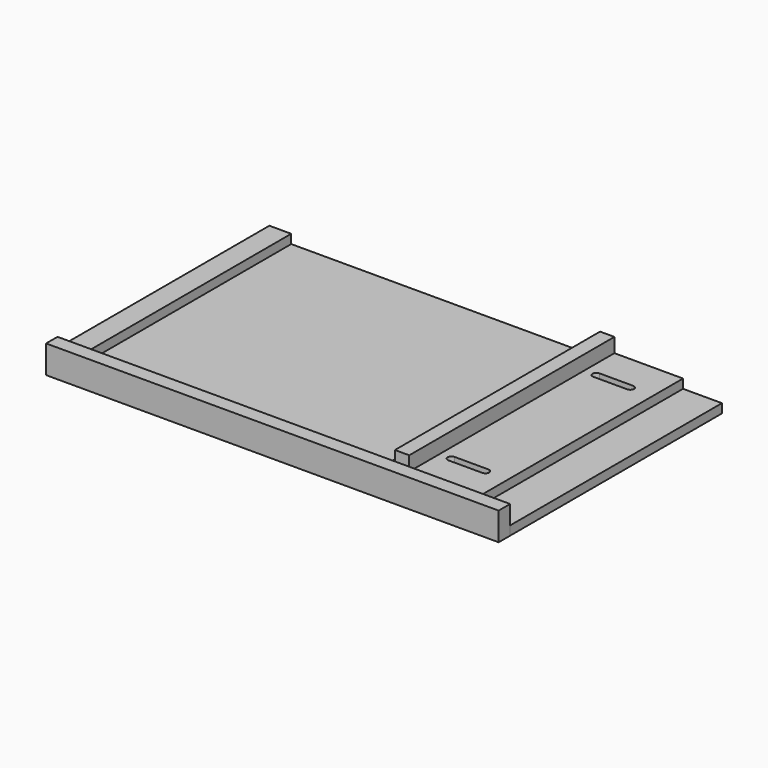
from build123d import *

# Parameters (mm, degrees)
F0_W          = 600
F0_H          = 370
F0_R          = 12.5
F0_R_2        = 5
F1_DEPTH      = 12
F2_DEPTH      = 6
F3_W          = 120
F3_H          = 340
F3_W_2        = 10
F3_H_2        = 351
F3_W_3        = 19
F4_DEPTH      = 12
F5_W          = 19
F5_H          = 340
F6_DEPTH      = 19
F3_W_4        = 571
F3_H_3        = 19
F7_DEPTH      = 25
F7_DEPTH_BACK = 12


with BuildPart() as f1:
    # F0 (on Top) → F1 (new body)
    with BuildSketch(Plane.XY):
        with Locations((300, 185)):
            Rectangle(F0_W, F0_H)
        with Locations((525, 80)):
            Circle(F0_R, mode=Mode.SUBTRACT)
        with Locations((525, 320)):
            Circle(F0_R, mode=Mode.SUBTRACT)
        with Locations((525, 80)):
            Circle(F0_R)
        with Locations((525, 80)):
            Circle(F0_R_2, mode=Mode.SUBTRACT)
        with Locations((525, 320)):
            Circle(F0_R)
        with Locations((525, 320)):
            Circle(F0_R_2, mode=Mode.SUBTRACT)
    extrude(amount=F1_DEPTH)

    # F0 (on Top) → F2 (cut)
    with BuildSketch(Plane.XY):
        with Locations((525, 80)):
            Circle(F0_R)
        with Locations((525, 80)):
            Circle(F0_R_2, mode=Mode.SUBTRACT)
        with Locations((525, 320)):
            Circle(F0_R)
        with Locations((525, 320)):
            Circle(F0_R_2, mode=Mode.SUBTRACT)
    extrude(amount=F2_DEPTH, mode=Mode.SUBTRACT)


with BuildPart() as f4:
    # F3 (on face) → F4 (new body)
    with BuildSketch(Plane.XY.offset(12)):
        with Locations((488.453896, 200)):
            Rectangle(F3_W, F3_H)
        with BuildLine():
            ThreePointArc((473.453896, 75), (468.453896, 80), (473.453896, 85))
            Line((473.453896, 85), (518.453896, 85))
            ThreePointArc((518.453896, 85), (520.200441, 84.685038), (521.726948, 83.779832))
            ThreePointArc((521.726948, 83.779832), (527.077828, 84.547816), (530, 80))
            ThreePointArc((530, 80), (527.077828, 75.452184), (521.726948, 76.220168))
            ThreePointArc((521.726948, 76.220168), (520.200441, 75.314962), (518.453896, 75))
            Line((518.453896, 75), (473.453896, 75))
        make_face(mode=Mode.SUBTRACT)
        with BuildLine():
            Line((518.453896, 315), (473.453896, 315))
            ThreePointArc((473.453896, 315), (468.453896, 320), (473.453896, 325))
            Line((473.453896, 325), (518.453896, 325))
            ThreePointArc((518.453896, 325), (520.200441, 324.685038), (521.726948, 323.779832))
            ThreePointArc((521.726948, 323.779832), (527.077828, 324.547816), (530, 320))
            ThreePointArc((530, 320), (527.077828, 315.452184), (521.726948, 316.220168))
            ThreePointArc((521.726948, 316.220168), (520.200441, 315.314962), (518.453896, 315))
        make_face(mode=Mode.SUBTRACT)
        with BuildLine():
            ThreePointArc((521.726948, 323.779832), (523.453896, 320), (521.726948, 316.220168))
            ThreePointArc((521.726948, 316.220168), (527.077828, 315.452184), (530, 320))
            ThreePointArc((530, 320), (527.077828, 324.547816), (521.726948, 323.779832))
        make_face()
        with BuildLine():
            ThreePointArc((530, 80), (527.077828, 84.547816), (521.726948, 83.779832))
            ThreePointArc((521.726948, 83.779832), (523.453896, 80), (521.726948, 76.220168))
            ThreePointArc((521.726948, 76.220168), (527.077828, 75.452184), (530, 80))
        make_face()
        with Locations((24, 194.5)):
            Rectangle(F3_W_2, F3_H_2)
        with Locations((9.5, 194.5)):
            Rectangle(F3_W_3, F3_H_2)
    extrude(amount=F4_DEPTH)


with BuildPart() as f6:
    # F5 (on face) → F6 (new body)
    with BuildSketch(Plane.XY.offset(24)):
        with Locations((447.953896, 200)):
            Rectangle(F5_W, F5_H)
    extrude(amount=F6_DEPTH)


with BuildPart() as f7:
    # F3 (on face) → F7 (new body, two sides)
    with BuildSketch(Plane.XY.offset(12)) as f7_sk:
        with Locations((314.5, 9.5)):
            Rectangle(F3_W_4, F3_H_3)
        with Locations((9.5, 9.5)):
            Rectangle(F3_W_3, F3_H_3)
        with Locations((24, 9.5)):
            Rectangle(F3_W_2, F3_H_3)
    extrude(amount=F7_DEPTH)
    extrude(f7_sk.sketch, amount=-F7_DEPTH_BACK)


solid = Compound([f1.part, f4.part, f6.part, f7.part])
